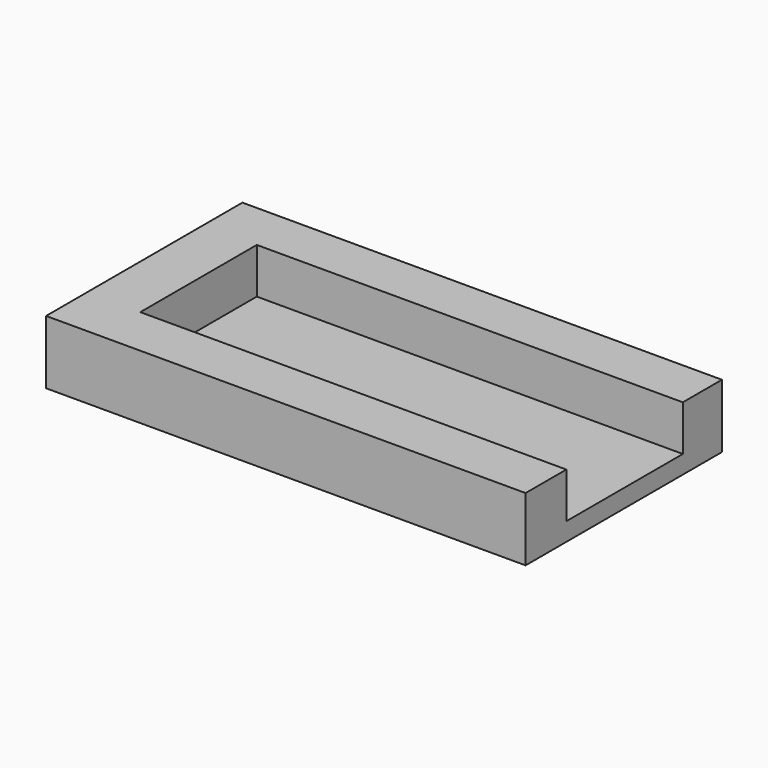
from build123d import *

# Parameters (mm, degrees)
F0_W     = 263.49178
F0_H     = 134.85393
F1_DEPTH = 10
F3_DEPTH = 25


with BuildPart() as f1:
    # F0 (on Top) → F1 (new body)
    with BuildSketch(Plane.XY):
        Rectangle(F0_W, F0_H)
    extrude(amount=F1_DEPTH)

    # F2 (on face) → F3 (join)
    with BuildSketch(Plane.XY.offset(10)):
        Polygon((131.74589, 67.426965), (-131.74589, 67.426965), (-131.74589, -67.426965), (131.74589, -67.426965), (131.74589, -39.426965), (-102.36381, -39.426965), (-102.36381, 40.573035), (131.74589, 40.573035), align=None)
    extrude(amount=F3_DEPTH)


solid = f1.part
